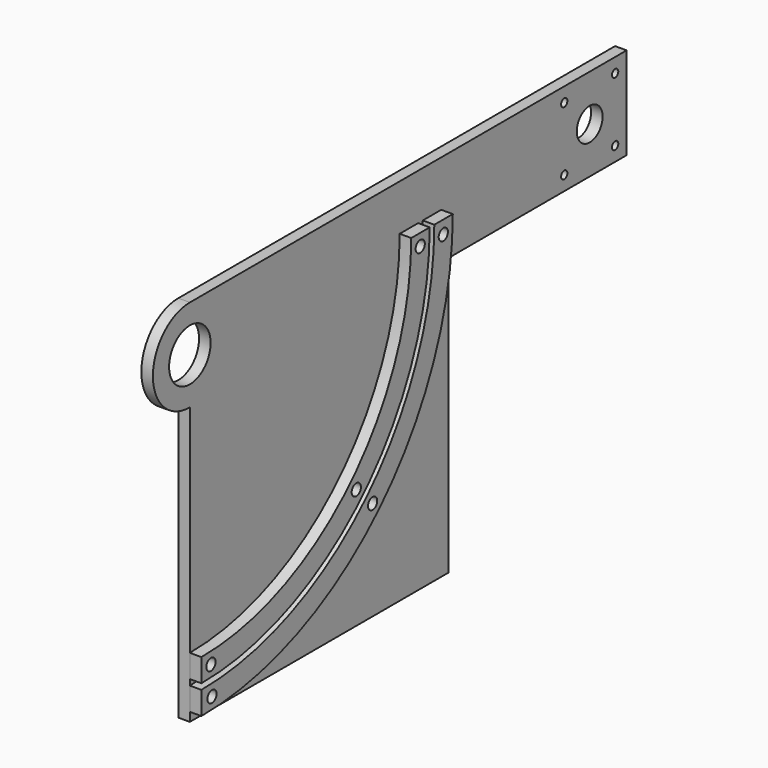
from build123d import *

# Parameters (mm, degrees)
F0_R     = 2.159
F0_R_2   = 8.89
F0_R_3   = 3.175
F1_DEPTH = 6.35
F2_DEPTH = 6.35
F3_DEPTH = 6.35


with BuildPart() as f1:
    # F0 (on Right) → F1 (new body)
    with BuildSketch(Plane.YZ):
        with BuildLine():
            Line((-92.2632388765, 177.8), (-81.1507388765, 177.8))
            ThreePointArc((-81.1507388765, 177.8), (-88.5902266343, 195.7605122421), (-106.5507388765, 203.2))
            ThreePointArc((-106.5507388765, 203.2), (-131.9507388765, 177.8), (-106.5507388765, 152.4))
            Line((-106.5507388765, 152.4), (-106.5507388765, 163.5125))
            ThreePointArc((-106.5507388765, 163.5125), (-116.6535270127, 187.9027881362), (-92.2632388765, 177.8))
        make_face()
        with BuildLine():
            ThreePointArc((-106.5507388765, 152.4), (-88.5902266343, 159.8394877579), (-81.1507388765, 177.8))
            Line((-81.1507388765, 177.8), (-92.2632388765, 177.8))
            ThreePointArc((-92.2632388765, 177.8), (-96.4479507403, 167.6972118638), (-106.5507388765, 163.5125))
            Line((-106.5507388765, 163.5125), (-106.5507388765, 152.4))
        make_face()
        with BuildLine():
            ThreePointArc((-106.5507388765, 203.2), (-88.5902266343, 195.7605122421), (-81.1507388765, 177.8))
            Line((-81.1507388765, 177.8), (37.7847611235, 177.8))
            Line((37.7847611235, 177.8), (50.4847611235, 177.8))
            Line((50.4847611235, 177.8), (53.6597611235, 177.8))
            Line((53.6597611235, 177.8), (66.3597611235, 177.8))
            Line((66.3597611235, 177.8), (71.2492611235, 177.8))
            Line((71.2492611235, 177.8), (71.2492611235, 203.2))
            Line((71.2492611235, 203.2), (-106.5507388765, 203.2))
        make_face()
        Polygon((193.8728411235, 203.2), (71.2492611235, 203.2), (71.2492611235, 177.8), (71.2492611235, 152.4), (193.8728411235, 152.4), align=None)
        with Locations((150.9728411235, 160.3)):
            Circle(F0_R, mode=Mode.SUBTRACT)
        with Locations((185.9728411235, 160.3)):
            Circle(F0_R, mode=Mode.SUBTRACT)
        with Locations((150.9728411235, 195.3)):
            Circle(F0_R, mode=Mode.SUBTRACT)
        with Locations((168.4728411235, 177.8)):
            Circle(F0_R_2, mode=Mode.SUBTRACT)
        with Locations((185.9728411235, 195.3)):
            Circle(F0_R, mode=Mode.SUBTRACT)
        with BuildLine():
            Line((71.2492611235, 152.4), (71.2492611235, 177.8))
            Line((71.2492611235, 177.8), (66.3597611235, 177.8))
            ThreePointArc((66.3597611235, 177.8), (15.7154482119, 55.5338129116), (-106.5507388765, 4.8895))
            Line((-106.5507388765, 4.8895), (-106.5507388765, 0))
            Line((-106.5507388765, 0), (71.2492611235, 0))
            Line((71.2492611235, 0), (71.2492611235, 152.4))
        make_face()
        with BuildLine():
            Line((66.3597611235, 177.8), (53.6597611235, 177.8))
            ThreePointArc((53.6597611235, 177.8), (6.7351920908, 64.5140690327), (-106.5507388765, 17.5895))
            Line((-106.5507388765, 17.5895), (-106.5507388765, 4.8895))
            ThreePointArc((-106.5507388765, 4.8895), (15.7154482119, 55.5338129116), (66.3597611235, 177.8))
        make_face()
        with Locations((-99.2854719072, 11.3980286892)):
            Circle(F0_R_3, mode=Mode.SUBTRACT)
        with Locations((11.2253201513, 60.0239409722)):
            Circle(F0_R_3, mode=Mode.SUBTRACT)
        with Locations((59.8512324343, 170.5347330307)):
            Circle(F0_R_3, mode=Mode.SUBTRACT)
        with BuildLine():
            Line((53.6597611235, 177.8), (50.4847611235, 177.8))
            ThreePointArc((50.4847611235, 177.8), (4.4901280605, 66.759133063), (-106.5507388765, 20.7645))
            Line((-106.5507388765, 20.7645), (-106.5507388765, 17.5895))
            ThreePointArc((-106.5507388765, 17.5895), (6.7351920908, 64.5140690327), (53.6597611235, 177.8))
        make_face()
        with BuildLine():
            Line((50.4847611235, 177.8), (37.7847611235, 177.8))
            ThreePointArc((37.7847611235, 177.8), (-4.4901280605, 75.739389184), (-106.5507388765, 33.4645))
            Line((-106.5507388765, 33.4645), (-106.5507388765, 20.7645))
            ThreePointArc((-106.5507388765, 20.7645), (4.4901280605, 66.759133063), (50.4847611235, 177.8))
        make_face()
        with Locations((-99.9779296816, 27.2579192068)):
            Circle(F0_R_3, mode=Mode.SUBTRACT)
        with Locations((0, 71.2492611235)):
            Circle(F0_R_3, mode=Mode.SUBTRACT)
        with Locations((43.9913419167, 171.2271908052)):
            Circle(F0_R_3, mode=Mode.SUBTRACT)
        with BuildLine():
            Line((37.7847611235, 177.8), (-81.1507388765, 177.8))
            ThreePointArc((-81.1507388765, 177.8), (-88.5902266343, 159.8394877579), (-106.5507388765, 152.4))
            Line((-106.5507388765, 152.4), (-106.5507388765, 33.4645))
            ThreePointArc((-106.5507388765, 33.4645), (-4.4901280605, 75.739389184), (37.7847611235, 177.8))
        make_face()
    extrude(amount=-F1_DEPTH)


with BuildPart() as f2:
    # F0 (on Right) → F2 (new body)
    with BuildSketch(Plane.YZ):
        with BuildLine():
            Line((50.4847611235, 177.8), (37.7847611235, 177.8))
            ThreePointArc((37.7847611235, 177.8), (-4.4901280605, 75.739389184), (-106.5507388765, 33.4645))
            Line((-106.5507388765, 33.4645), (-106.5507388765, 20.7645))
            ThreePointArc((-106.5507388765, 20.7645), (4.4901280605, 66.759133063), (50.4847611235, 177.8))
        make_face()
        with Locations((-99.9779296816, 27.2579192068)):
            Circle(F0_R_3, mode=Mode.SUBTRACT)
        with Locations((0, 71.2492611235)):
            Circle(F0_R_3, mode=Mode.SUBTRACT)
        with Locations((43.9913419167, 171.2271908052)):
            Circle(F0_R_3, mode=Mode.SUBTRACT)
    extrude(amount=F2_DEPTH)


with BuildPart() as f3:
    # F0 (on Right) → F3 (new body)
    with BuildSketch(Plane.YZ):
        with BuildLine():
            Line((66.3597611235, 177.8), (53.6597611235, 177.8))
            ThreePointArc((53.6597611235, 177.8), (6.7351920908, 64.5140690327), (-106.5507388765, 17.5895))
            Line((-106.5507388765, 17.5895), (-106.5507388765, 4.8895))
            ThreePointArc((-106.5507388765, 4.8895), (15.7154482119, 55.5338129116), (66.3597611235, 177.8))
        make_face()
        with Locations((-99.2854719072, 11.3980286892)):
            Circle(F0_R_3, mode=Mode.SUBTRACT)
        with Locations((11.2253201513, 60.0239409722)):
            Circle(F0_R_3, mode=Mode.SUBTRACT)
        with Locations((59.8512324343, 170.5347330307)):
            Circle(F0_R_3, mode=Mode.SUBTRACT)
    extrude(amount=F3_DEPTH)


solid = Compound([f1.part, f2.part, f3.part])
